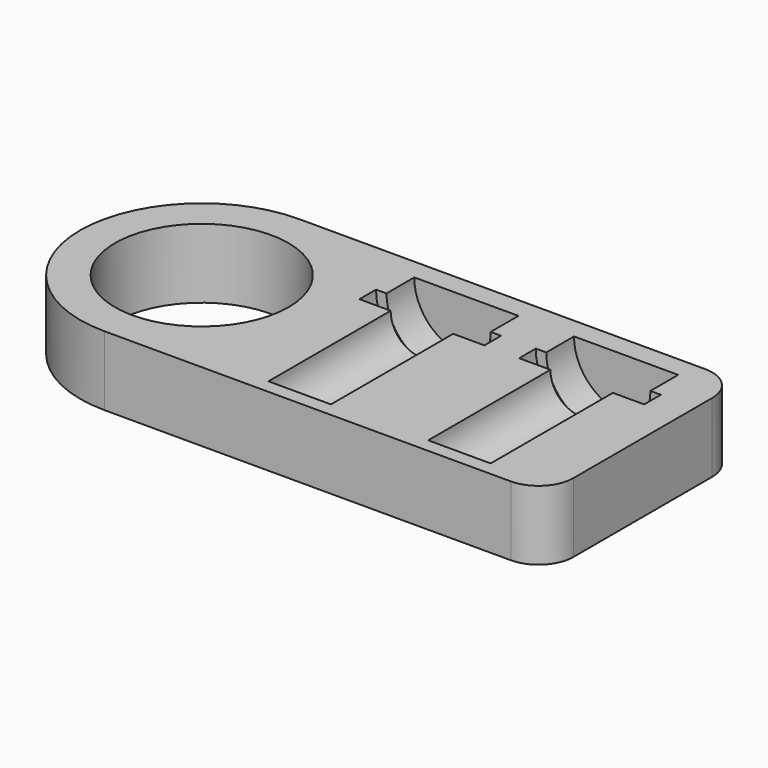
from build123d import *

# Parameters (mm, degrees)
F0_R     = 12.5
F1_DEPTH = 10


with BuildPart() as f1:
    # F0 (on Top) → F1 (new body)
    with BuildSketch(Plane.XY):
        with BuildLine():
            ThreePointArc((0, 17.5), (5.125631, 5.125631), (17.5, 0))
            Line((17.5, 0), (76, 0))
            ThreePointArc((76, 0), (79.535534, 1.464466), (81, 5))
            Line((81, 5), (81, 30))
            ThreePointArc((81, 30), (79.535534, 33.535534), (76, 35))
            Line((76, 35), (17.5, 35))
            ThreePointArc((17.5, 35), (5.125631, 29.874369), (0, 17.5))
        make_face()
        with Locations((17.5, 17.5)):
            Circle(F0_R, mode=Mode.SUBTRACT)
    extrude(amount=F1_DEPTH)

    # F2 (on face) → F3 (revolve, cut)
    with BuildSketch(Plane.XY.offset(10)):
        Polygon((44, 24), (44, 2), (48.5, 2), (48.5, 24), (53, 24), (53, 27), (51.5, 27), (51.5, 32), (44, 32), (44, 27), align=None)
    revolve(axis=Axis((44, 13, 10), (0, 1, 0)), mode=Mode.SUBTRACT)

    # F2 (on face) → F4 (revolve, cut)
    with BuildSketch(Plane.XY.offset(10)):
        Polygon((67, 24), (67, 2), (71.5, 2), (71.5, 24), (76, 24), (76, 27), (74.5, 27), (74.5, 32), (67, 32), (67, 27), align=None)
    revolve(axis=Axis((67, 13, 10), (0, 1, 0)), mode=Mode.SUBTRACT)


solid = f1.part
